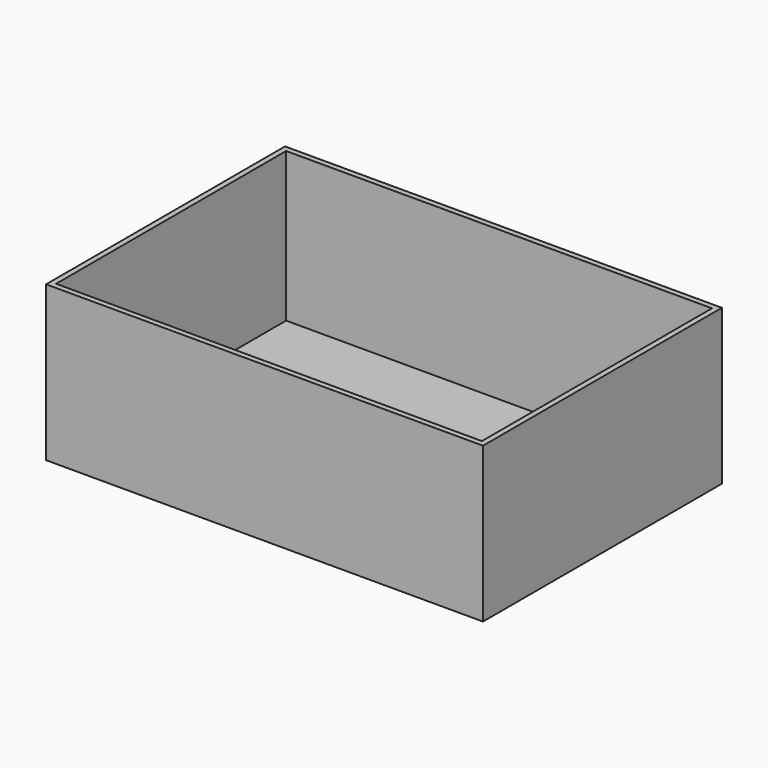
from build123d import *

# Parameters (mm, degrees)
F0_W     = 158
F0_H     = 108
F0_W_2   = 154
F0_H_2   = 104
F1_DEPTH = 2
F2_DEPTH = 54


with BuildPart() as f1:
    # F0 (on Top) → F1 (new body)
    with BuildSketch(Plane.XY):
        Rectangle(F0_W, F0_H)
        Rectangle(F0_W_2, F0_H_2, mode=Mode.SUBTRACT)
        Rectangle(F0_W_2, F0_H_2)
    extrude(amount=-F1_DEPTH)

    # F0 (on Top) → F2 (join)
    with BuildSketch(Plane.XY):
        Rectangle(F0_W, F0_H)
        Rectangle(F0_W_2, F0_H_2, mode=Mode.SUBTRACT)
    extrude(amount=F2_DEPTH)


solid = f1.part
